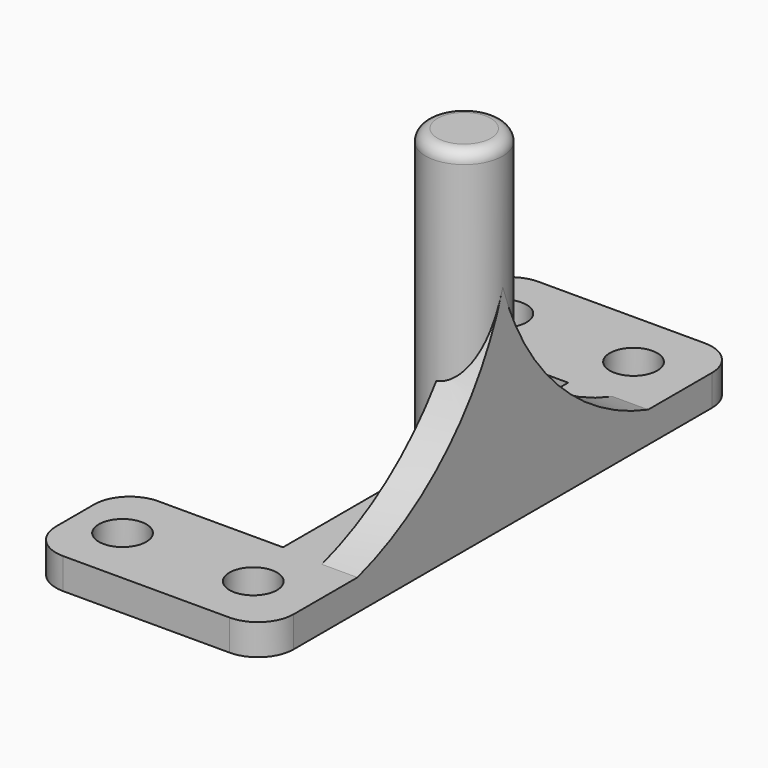
from build123d import *

# Parameters (mm, degrees)
F0_R     = 2
F1_DEPTH = 2.6
F2_R     = 3.25
F3_DEPTH = 26
F4_R     = 3
F6_DEPTH = 3
F7_R     = 1


with BuildPart() as f1:
    # F0 (on Top) → F1 (new body)
    with BuildSketch(Plane.XY):
        Polygon((0, 50), (-20, 50), (-20, 40), (-6.5, 40), (-6.5, 10), (-20, 10), (-20, 0), (0, 0), align=None)
        with Locations((-16, 5)):
            Circle(F0_R, mode=Mode.SUBTRACT)
        with Locations((-5, 5)):
            Circle(F0_R, mode=Mode.SUBTRACT)
        with Locations((-16, 45)):
            Circle(F0_R, mode=Mode.SUBTRACT)
        with Locations((-5, 45)):
            Circle(F0_R, mode=Mode.SUBTRACT)
    extrude(amount=F1_DEPTH)

    # F2 (on face) → F3 (join)
    with BuildSketch(Plane.XY.offset(2.6)):
        with Locations((-3.25, 25)):
            Circle(F2_R)
    extrude(amount=F3_DEPTH)

    # F4
    f4_edges = [f1.edges().sort_by_distance(p)[0] for p in [
        (-20, 50, 1.3),
        (-20, 40, 1.3),
        (-20, 10, 1.3),
        (-20, 0, 1.3),
        (0, 50, 1.3),
        (0, 0, 1.3),
    ]]
    fillet(f4_edges, radius=F4_R)

    # F5 (on face) → F6 (join)
    with BuildSketch(Plane.YZ):
        with BuildLine():
            ThreePointArc((25, 17.891796), (19.263456, 8.336544), (9.708204, 2.6))
            Line((9.708204, 2.6), (25, 2.6))
            Line((25, 2.6), (40.291796, 2.6))
            ThreePointArc((40.291796, 2.6), (30.736544, 8.336544), (25, 17.891796))
        make_face()
    extrude(amount=-F6_DEPTH)

    # F7
    f7_edges = [f1.edges().sort_by_distance(p)[0] for p in [
        (-6.5, 25, 28.6),
    ]]
    fillet(f7_edges, radius=F7_R)


solid = f1.part
